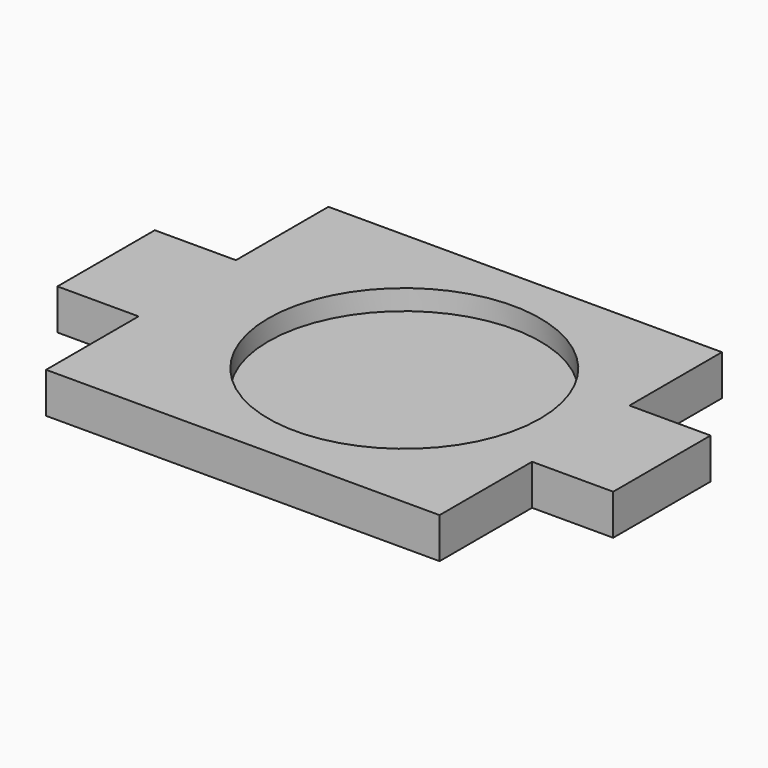
from build123d import *

# Parameters (mm, degrees)
PAD_DEPTH    = 10
SKETCH001_R  = 33.5
POCKET_DEPTH = 5


with BuildPart() as part:
    # Sketch → Pad (new body)
    with BuildSketch(Plane.XY):
        Polygon((0, -28.5), (20, -28.5), (20, 0), (117, 0), (117, -28.5), (137, -28.5), (137, -58.5), (117, -58.5), (117, -87), (20, -87), (20, -58.5), (0, -58.5), align=None)
    extrude(amount=-PAD_DEPTH)

    # Sketch001 → Pocket (cut)
    with BuildSketch(Plane.XY):
        with Locations((73.5, -43.5)):
            Circle(SKETCH001_R)
    extrude(amount=-POCKET_DEPTH, mode=Mode.SUBTRACT)


solid = part.part
